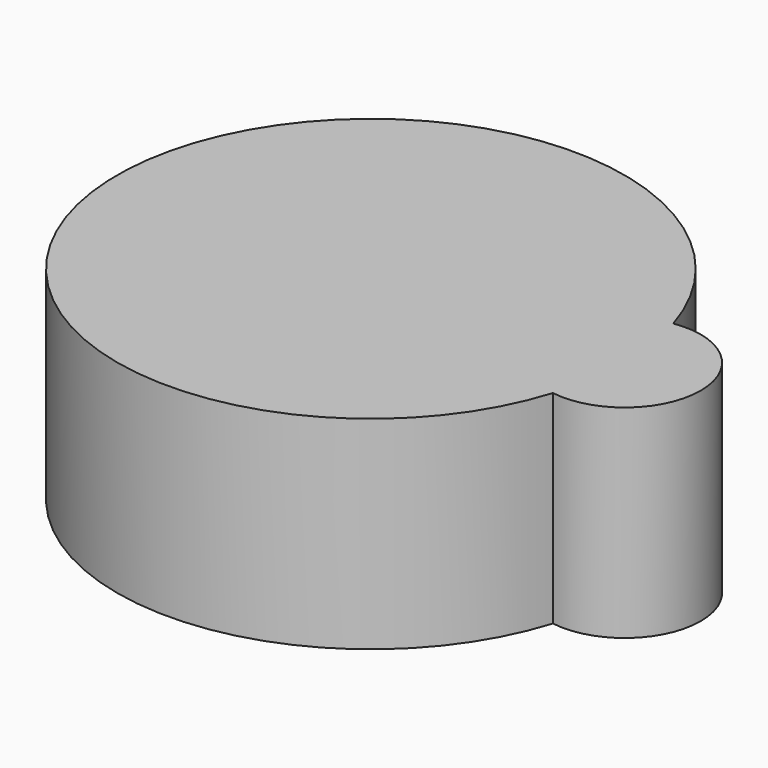
from build123d import *

# Parameters (mm, degrees)
F0_R     = 31.75
F2_DEPTH = 25.4
F1_R     = 9.525
F3_DEPTH = 25.4


with BuildPart() as f2:
    # F0 (on Top) → F2 (new body)
    with BuildSketch(Plane.XY):
        Circle(F0_R)
    extrude(amount=F2_DEPTH)

    # F1 (on Top) → F3 (join)
    with BuildSketch(Plane.XY):
        with Locations((31.763723, 0)):
            Circle(F1_R)
    extrude(amount=F3_DEPTH)


solid = f2.part
